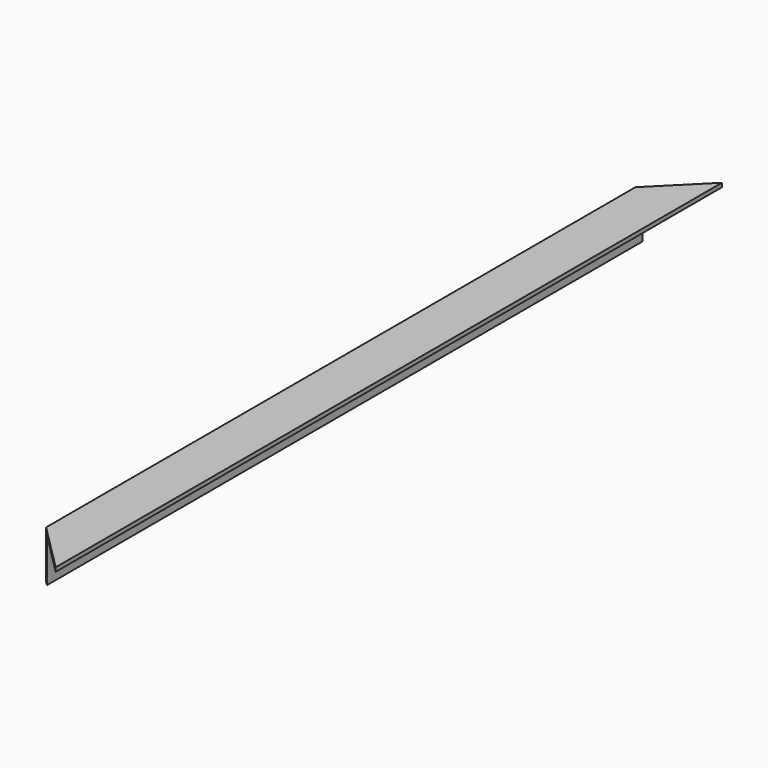
from build123d import *

# Parameters (mm, degrees)
F1_DEPTH = 660.4
F3_DEPTH = 38.101


with BuildPart() as f1:
    # F0 (on Front) → F1 (new body)
    with BuildSketch(Plane.XZ):
        Polygon((19.05, 15.875), (19.05, 19.05), (-19.05, 19.05), (-19.05, -19.05), (-15.875, -19.05), (-15.875, 15.875), align=None)
    extrude(amount=F1_DEPTH)

    # F2 (on face) → F3 (cut, through all)
    with BuildSketch(Plane.XY.offset(19.05)):
        Polygon((-19.05, -660.4), (19.05, -660.4), (-19.05, -622.3), align=None)
        Polygon((-19.05, -38.1), (19.05, 0), (-19.05, 0), align=None)
    extrude(amount=-F3_DEPTH, mode=Mode.SUBTRACT)


solid = f1.part
